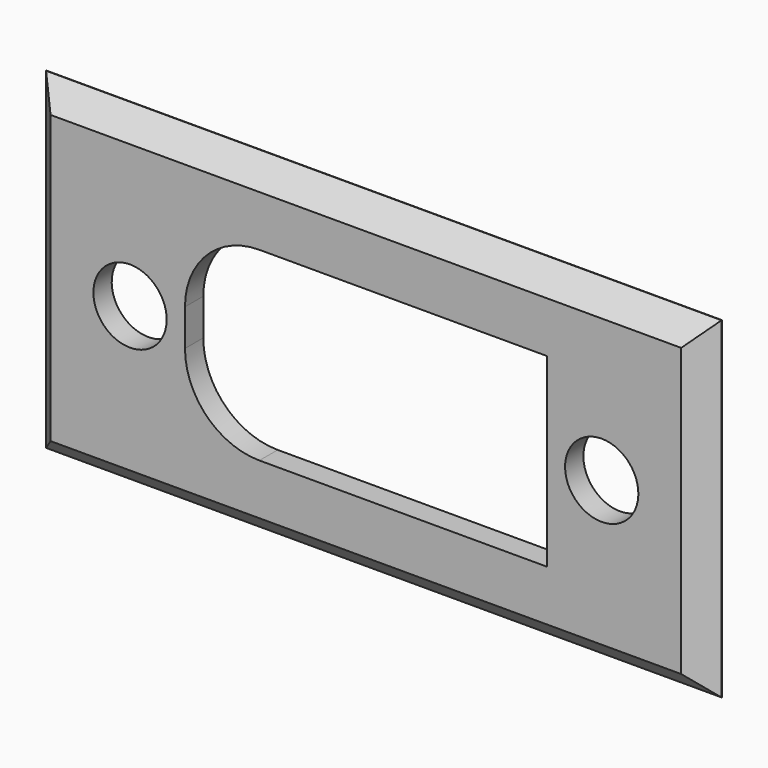
from build123d import *

# Parameters (mm, degrees)
BOX085084_W                                                = 8.1
BOX085084_H                                                = 10
BOX085084_DEPTH                                            = 15.8
FILLET005011017044_R                                       = 3.25
CYLINDER053_R                                              = 1.6
CYLINDER053_DEPTH                                          = 10
CYLINDER054_R                                              = 1.6
CYLINDER054_DEPTH                                          = 10
FUSION004008002002002001007002002026012008_PLACEMENT_ANGLE = 90
BOX085130_W                                                = 29.5
BOX085130_H                                                = 1
BOX085130_DEPTH                                            = 14.5
CHAMFER011006003017049_SIZE                                = 0.98


with BuildPart() as fillet005011017044:
    # Box085084 → Box085084 (new body)
    with BuildSketch(Plane(origin=(15.9, 118, 17.9), x_dir=(1, 0, 0), z_dir=(0, 0, 1))):
        with Locations((4.05, 5)):
            Rectangle(BOX085084_W, BOX085084_H)
    extrude(amount=BOX085084_DEPTH)

    # Fillet005011017044
    fillet005011017044_edges = [fillet005011017044.edges().sort_by_distance(p)[0] for p in [
        (15.9, 123, 33.7),
        (24, 123, 33.7),
    ]]
    fillet(fillet005011017044_edges, radius=FILLET005011017044_R)


with BuildPart() as cylinder053:
    # Cylinder053 → Cylinder053 (new body)
    with BuildSketch(Plane(origin=(20, 128, 15.5), x_dir=(1, 0, 0), z_dir=(0, -1, 0))):
        Circle(CYLINDER053_R)
    extrude(amount=CYLINDER053_DEPTH)


with BuildPart() as obj1:
    # Cylinder054 → Cylinder054 (new body)
    with BuildSketch(Plane(origin=(20, 128, 36.1), x_dir=(1, 0, 0), z_dir=(0, -1, 0))):
        Circle(CYLINDER054_R)
    extrude(amount=CYLINDER054_DEPTH)

    # Fusion004008002002002001007002002026012008: union Fillet005011017044, Cylinder053
    add(fillet005011017044.part)
    add(cylinder053.part)


with BuildPart() as obj1_1:
    # Fusion004008002002002001007002002026012008 placement: moved
    add(obj1.part.moved(Location((149.7, -4, 13.1))).rotate(Axis((149.7, -4, 13.1), (0, -1, 0)), FUSION004008002002002001007002002026012008_PLACEMENT_ANGLE))


with BuildPart() as cut001002016041:
    # Box085130 → Box085130 (new body)
    with BuildSketch(Plane(origin=(113.15, 117, 27.8), x_dir=(1, 0, 0), z_dir=(0, 0, 1))):
        with Locations((14.75, 0.5)):
            Rectangle(BOX085130_W, BOX085130_H)
    extrude(amount=BOX085130_DEPTH)

    # Chamfer011006003017049
    chamfer011006003017049_edges = [cut001002016041.edges().sort_by_distance(p)[0] for p in [
        (113.15, 117, 35.05),
        (142.65, 117, 35.05),
        (127.9, 117, 27.8),
        (127.9, 117, 42.3),
    ]]
    chamfer(chamfer011006003017049_edges, length=CHAMFER011006003017049_SIZE)


with BuildPart() as cut001002016041_1:
    # Chamfer011006003017049 placement: moved
    add(cut001002016041.part.moved(Location((-4, 0, -2))))

    # Cut001002016041: cut obj1
    add(obj1_1.part, mode=Mode.SUBTRACT)


solid = cut001002016041_1.part
